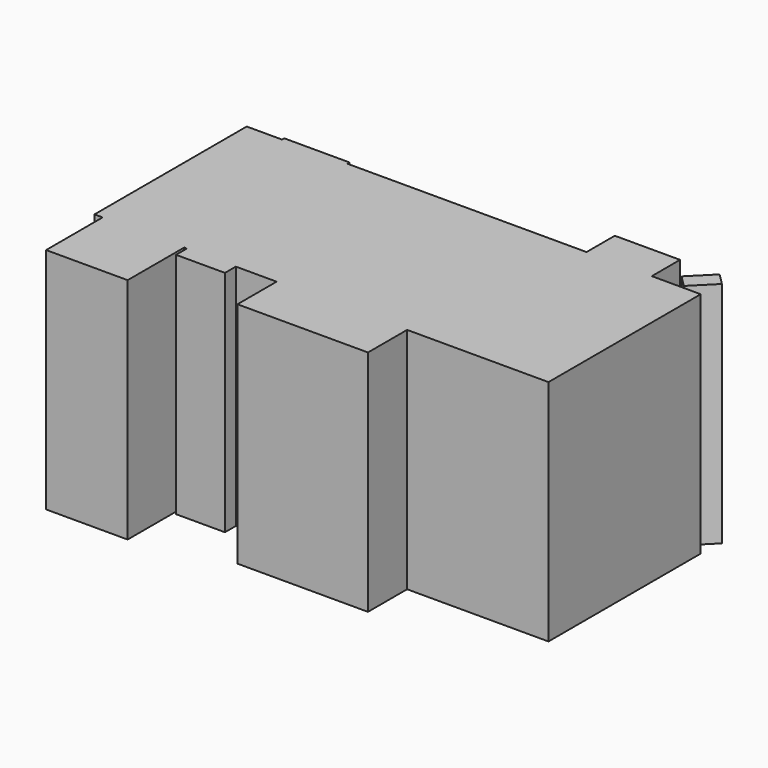
from build123d import *

# Parameters (mm, degrees)
F0_W     = 609.6
F0_H     = 25.4
F0_H_2   = 330.2
F0_W_2   = 1219.2
F0_H_3   = 457.2
F0_W_3   = 762
F0_H_4   = 660.4
F0_W_4   = 457.2
F0_H_5   = 127
F1_DEPTH = 2133.6


with BuildPart() as f1:
    # F0 (on Top) → F1 (new body)
    with BuildSketch(Plane.XY):
        Polygon((-1790.7, 889), (-2120.9, 889), (-2120.9, -889), (-2044.7, -889), (-1282.7, -889), (-1257.3, -889), (-800.1, -889), (-419.1, -889), (800.1, -889), (2120.9, -889), (2120.9, 889), (1663.7, 889), (1054.1, 889), (-1181.1, 889), align=None)
        with Locations((-1485.9, 901.7)):
            Rectangle(F0_W, F0_H)
        with Locations((1358.9, 1054.1)):
            Rectangle(F0_W, F0_H_2)
        with Locations((190.5, -1117.6)):
            Rectangle(F0_W_2, F0_H_3)
        with Locations((-1663.7, -1219.2)):
            Rectangle(F0_W_3, F0_H_4)
        with Locations((-1028.7, -952.5)):
            Rectangle(F0_W_4, F0_H_5)
        Polygon((2032.902561, 1219.728708), (1835.336927, 1022.163073), (1943.1, 914.4), (2140.665635, 1111.965635), align=None)
    extrude(amount=F1_DEPTH)


solid = f1.part
